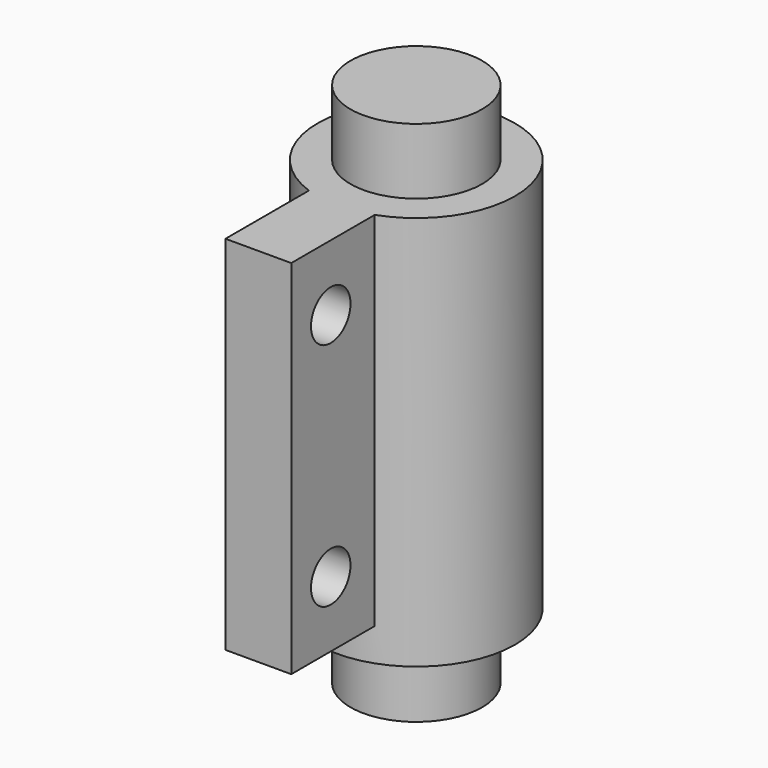
from build123d import *

# Parameters (mm, degrees)
F0_R     = 19.05
F1_DEPTH = 38.1
F2_W     = 12.7
F2_H     = 69.85
F3_DEPTH = 38.1
F4_R     = 4.7625
F5_DEPTH = 12.7
F6_R     = 12.7
F7_DEPTH = 50.8


with BuildPart() as f1:
    # F0 (on Top) → F1 (new body, symmetric)
    with BuildSketch(Plane.XY):
        Circle(F0_R)
    extrude(amount=F1_DEPTH, both=True)

    # F2 (on Front) → F3 (join)
    with BuildSketch(Plane.XZ):
        with Locations((0, 3.175)):
            Rectangle(F2_W, F2_H)
    extrude(amount=F3_DEPTH)

    # F4 (on Right) → F5 (cut, symmetric)
    with BuildSketch(Plane.YZ):
        with Locations((-28.575, 25.4)):
            Circle(F4_R)
        with Locations((-28.575, -19.05)):
            Circle(F4_R)
    extrude(amount=F5_DEPTH, both=True, mode=Mode.SUBTRACT)


with BuildPart() as f7:
    # F6 (on Top) → F7 (new body, symmetric)
    with BuildSketch(Plane.XY):
        Circle(F6_R)
    extrude(amount=F7_DEPTH, both=True)


solid = Compound([f1.part, f7.part])
